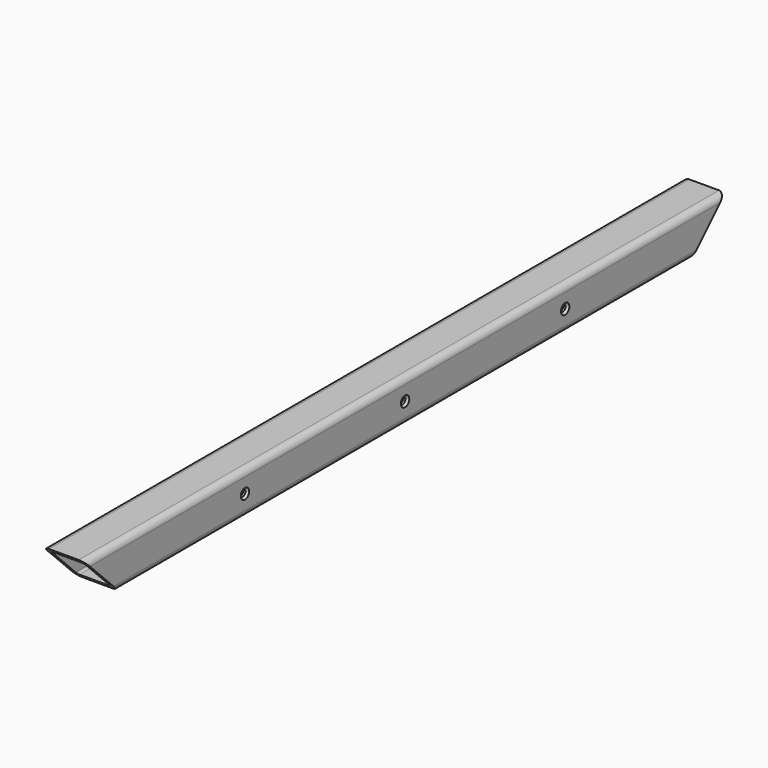
from build123d import *

# Parameters (mm, degrees)
F2_W            = 20
F2_H            = 20
F3_DEPTH        = 190
F4_R            = 3
F5_T            = -2
F7_DEPTH        = 20.001
F9_DEPTH        = 20.001
F11_D           = 3
F11_CSINK_D     = 5
F11_CSINK_ANGLE = 90


with BuildPart() as f3:
    # F2 (on Front) → F3 (new body, symmetric)
    with BuildSketch(Plane.XZ):
        Rectangle(F2_W, F2_H)
    extrude(amount=F3_DEPTH, both=True)

    # F4
    f4_edges = [f3.edges().sort_by_distance(p)[0] for p in [
        (10, 0, 10),
        (-10, 0, 10),
        (10, 0, -10),
        (-10, 0, -10),
    ]]
    fillet(f4_edges, radius=F4_R)

    # F5
    f5_openings = [f3.faces().sort_by_distance(p)[0] for p in [
        (0, -190, 0),
        (0, 190, 0),
    ]]
    offset(amount=F5_T, openings=f5_openings)

    # F6 (on face) → F7 (cut, through all)
    with BuildSketch(Plane(origin=(-10, 0, 0), x_dir=(0, -1, 0), z_dir=(-1, 0, 0))):
        Polygon((-190, 10), (-190, -10), (-170, -10), align=None)
    extrude(amount=-F7_DEPTH, mode=Mode.SUBTRACT)

    # F8 (on face) → F9 (cut, through all)
    with BuildSketch(Plane.YZ.offset(10)):
        Polygon((-190, -10), (-170, -10), (-190, 10), align=None)
    extrude(amount=-F9_DEPTH, mode=Mode.SUBTRACT)

    # F11 (through all)
    with Locations(Plane.YZ.offset(10)):
        with Locations((95, 0), (0, 0), (-95, 0)):
            CounterSinkHole(F11_D / 2, F11_CSINK_D / 2, counter_sink_angle=F11_CSINK_ANGLE)


solid = f3.part
